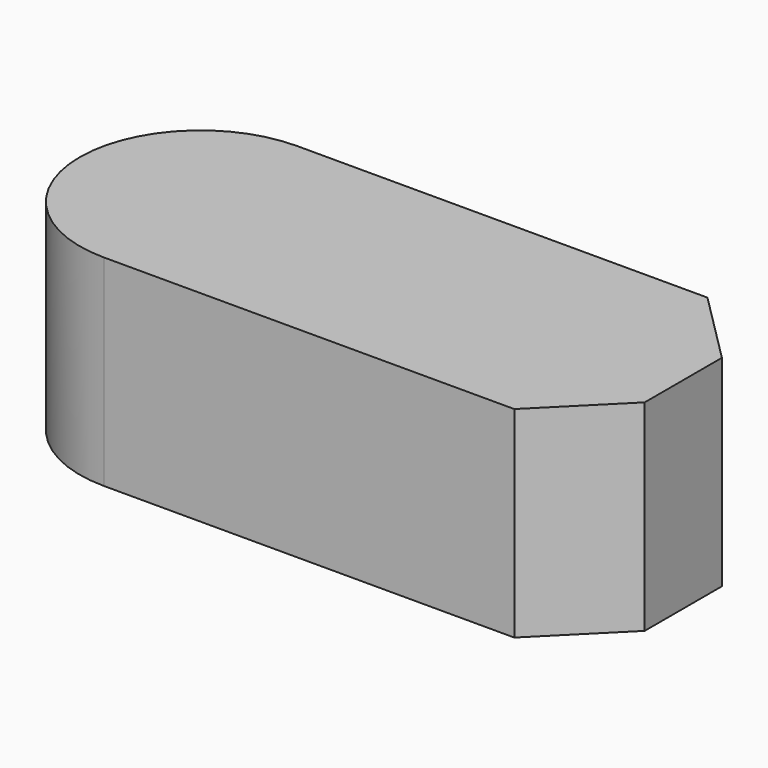
from build123d import *

# Parameters (mm, degrees)
F1_DEPTH = 25


with BuildPart() as f1:
    # F0 (on Top) → F1 (new body)
    with BuildSketch(Plane.XY):
        with BuildLine():
            ThreePointArc((0, 30), (-15, 15), (0, 0))
            Line((0, 0), (51, 0))
            Line((51, 0), (60, 9))
            Line((60, 9), (60, 21))
            Line((60, 21), (51, 30))
            Line((51, 30), (0, 30))
        make_face()
    extrude(amount=F1_DEPTH)


solid = f1.part
